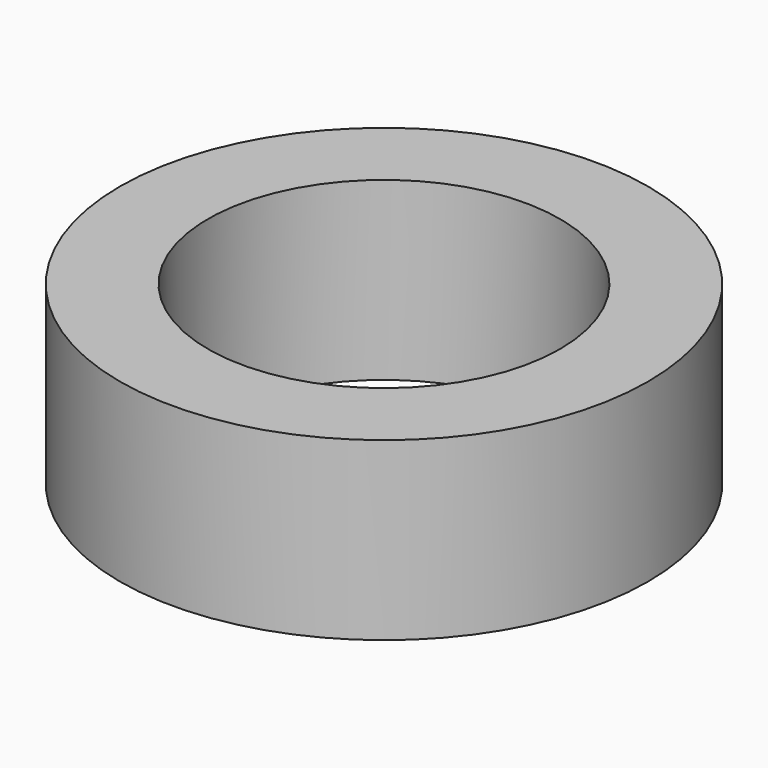
from build123d import *

# Parameters (mm, degrees)
CYLINDER_R     = 12.7
CYLINDER_DEPTH = 12.7
THICKNESS_T    = 6.35


with BuildPart() as part:
    # Cylinder → Cylinder (new body)
    with BuildSketch(Plane.XY):
        Circle(CYLINDER_R)
    extrude(amount=CYLINDER_DEPTH)

    # Thickness
    thickness_openings = [part.faces().sort_by_distance(p)[0] for p in [
        (0, 0, 12.7),
        (0, 0, 0),
    ]]
    offset(amount=THICKNESS_T, openings=thickness_openings)


solid = part.part
